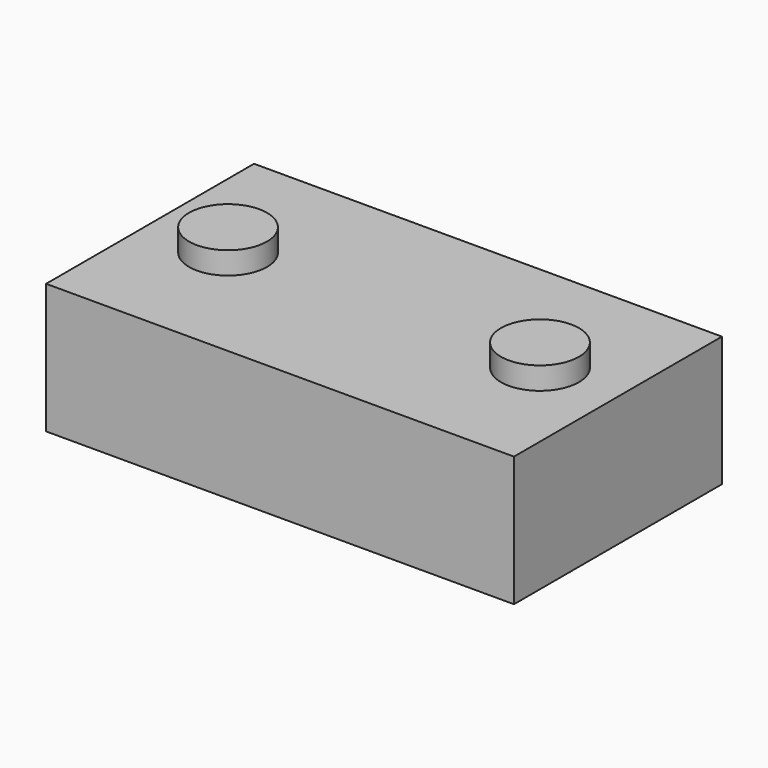
from build123d import *

# Parameters (mm, degrees)
F0_W     = 90
F0_H     = 50
F1_DEPTH = 25
F2_R     = 7.5
F3_DEPTH = 4.3
F4_W     = 84
F4_H     = 44
F5_DEPTH = 22


with BuildPart() as f1:
    # F0 (on Top) → F1 (new body)
    with BuildSketch(Plane.XY):
        Rectangle(F0_W, F0_H)
    extrude(amount=F1_DEPTH)

    # F2 (on face) → F3 (join)
    with BuildSketch(Plane.XY.offset(25)):
        with Locations((30, 0)):
            Circle(F2_R)
        with Locations((-30, 0)):
            Circle(F2_R)
    extrude(amount=F3_DEPTH)

    # F4 (on face) → F5 (cut)
    with BuildSketch(Plane(origin=(0, 0, 0), x_dir=(1, 0, 0), z_dir=(0, 0, -1))):
        Rectangle(F4_W, F4_H)
    extrude(amount=-F5_DEPTH, mode=Mode.SUBTRACT)


solid = f1.part
